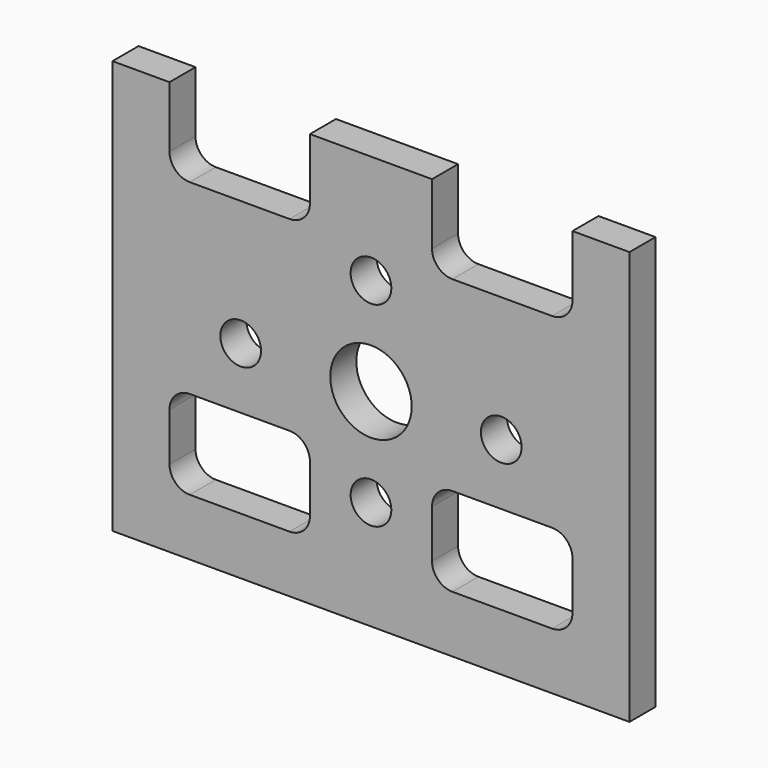
from build123d import *

# Parameters (mm, degrees)
F1_W     = 31.75
F1_H     = 25.4
F2_DEPTH = 2
F3_R     = 2.5
F3_R_2   = 1.25
F5_DEPTH = 2.001


with BuildPart() as f2:
    # F1 (on Front) → F2 (new body)
    with BuildSketch(Plane.XZ):
        Rectangle(F1_W, F1_H)
    extrude(amount=-F2_DEPTH)

    # F3 (on face) + F4 (on face) → F5 (cut, through all)
    with BuildSketch(Plane.XZ):
        Circle(F3_R)
        with Locations((-8, 0)):
            Circle(F3_R_2)
        with Locations((8, 0)):
            Circle(F3_R_2)
        with Locations((0, 6)):
            Circle(F3_R_2)
        with Locations((0, -6)):
            Circle(F3_R_2)
    with BuildSketch(Plane.XZ):
        with BuildLine():
            Line((-3.75, -7.95), (-3.75, -5))
            ThreePointArc((-3.75, -5), (-4.1161165235, -4.1161165235), (-5, -3.75))
            Line((-5, -3.75), (-11.125, -3.75))
            ThreePointArc((-11.125, -3.75), (-12.0088834765, -4.1161165235), (-12.375, -5))
            Line((-12.375, -5), (-12.375, -7.95))
            ThreePointArc((-12.375, -7.95), (-12.0088834765, -8.8338834765), (-11.125, -9.2))
            Line((-11.125, -9.2), (-5, -9.2))
            ThreePointArc((-5, -9.2), (-4.1161165235, -8.8338834765), (-3.75, -7.95))
        make_face()
        with BuildLine():
            ThreePointArc((5, -3.75), (4.1161165235, -4.1161165235), (3.75, -5))
            Line((3.75, -5), (3.75, -7.95))
            ThreePointArc((3.75, -7.95), (4.1161165235, -8.8338834765), (5, -9.2))
            Line((5, -9.2), (11.125, -9.2))
            ThreePointArc((11.125, -9.2), (12.0088834765, -8.8338834765), (12.375, -7.95))
            Line((12.375, -7.95), (12.375, -5))
            ThreePointArc((12.375, -5), (12.0088834765, -4.1161165235), (11.125, -3.75))
            Line((11.125, -3.75), (5, -3.75))
        make_face()
        with BuildLine():
            Line((-3.75, 12.7), (-12.375, 12.7))
            Line((-12.375, 12.7), (-12.375, 8.95))
            ThreePointArc((-12.375, 8.95), (-12.0088834765, 8.0661165235), (-11.125, 7.7))
            Line((-11.125, 7.7), (-5, 7.7))
            ThreePointArc((-5, 7.7), (-4.1161165235, 8.0661165235), (-3.75, 8.95))
            Line((-3.75, 8.95), (-3.75, 12.7))
        make_face()
        with BuildLine():
            Line((3.75, 12.7), (3.75, 8.95))
            ThreePointArc((3.75, 8.95), (4.1161165235, 8.0661165235), (5, 7.7))
            Line((5, 7.7), (11.125, 7.7))
            ThreePointArc((11.125, 7.7), (12.0088834765, 8.0661165235), (12.375, 8.95))
            Line((12.375, 8.95), (12.375, 12.7))
            Line((12.375, 12.7), (3.75, 12.7))
        make_face()
    extrude(amount=-F5_DEPTH, mode=Mode.SUBTRACT)


solid = f2.part
